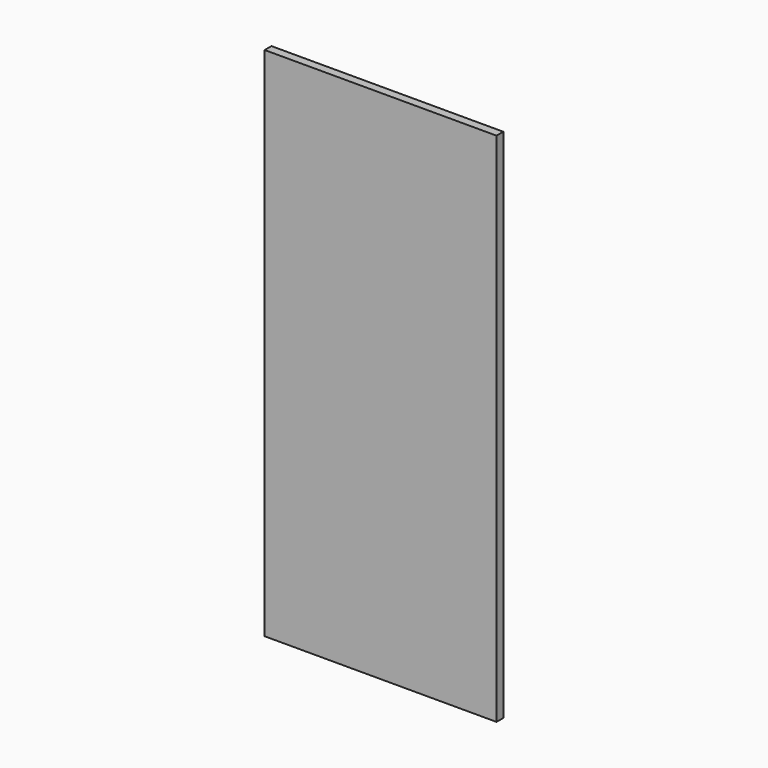
from build123d import *

# Parameters (mm, degrees)
F0_W     = 78
F0_H     = 183
F1_DEPTH = 3.175
F2_W     = 86.564482
F2_H     = 192.680806
F3_DEPTH = 3.175


with BuildPart() as f1:
    # F0 (on Front) → F1 (new body)
    with BuildSketch(Plane.XZ):
        Rectangle(F0_W, F0_H)
    extrude(amount=F1_DEPTH)

    # F2 (on face) → F3 (join)
    with BuildSketch(Plane.XZ.offset(3.175)):
        Rectangle(F2_W, F2_H)
    extrude(amount=F3_DEPTH)


solid = f1.part
